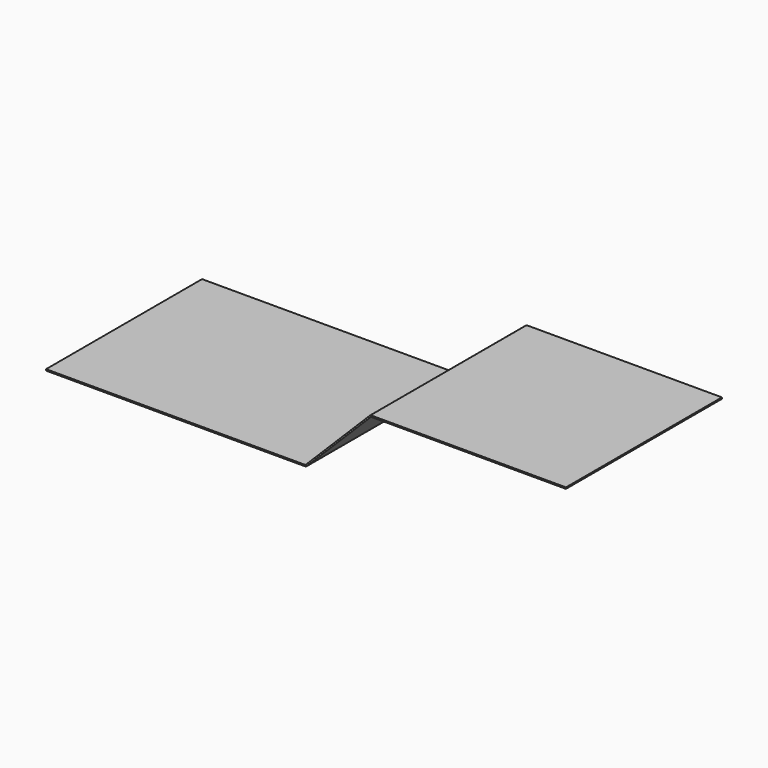
from build123d import *

# Parameters (mm, degrees)
F1_DEPTH = 457.2


with BuildPart() as f1:
    # F0 (on Front) → F1 (new body, symmetric)
    with BuildSketch(Plane.XZ):
        with BuildLine():
            Line((-1219.2, 0), (-2.630256, 0))
            ThreePointArc((-2.630256, 0), (-0.200216, 0.483365), (1.859872, 1.859872))
            Line((1.859872, 1.859872), (302.940128, 302.940128))
            ThreePointArc((302.940128, 302.940128), (305.000216, 304.316635), (307.430256, 304.8))
            Line((307.430256, 304.8), (1219.2, 304.8))
            Line((1219.2, 304.8), (1219.2, 311.15))
            Line((1219.2, 311.15), (304.8, 311.15))
            ThreePointArc((304.8, 311.15), (302.36996, 310.666635), (300.309872, 309.290128))
            Line((300.309872, 309.290128), (-0.770384, 8.209872))
            ThreePointArc((-0.770384, 8.209872), (-2.830472, 6.833365), (-5.260512, 6.35))
            Line((-5.260512, 6.35), (-1219.2, 6.35))
            Line((-1219.2, 6.35), (-1219.2, 0))
        make_face()
    extrude(amount=F1_DEPTH, both=True)


solid = f1.part
